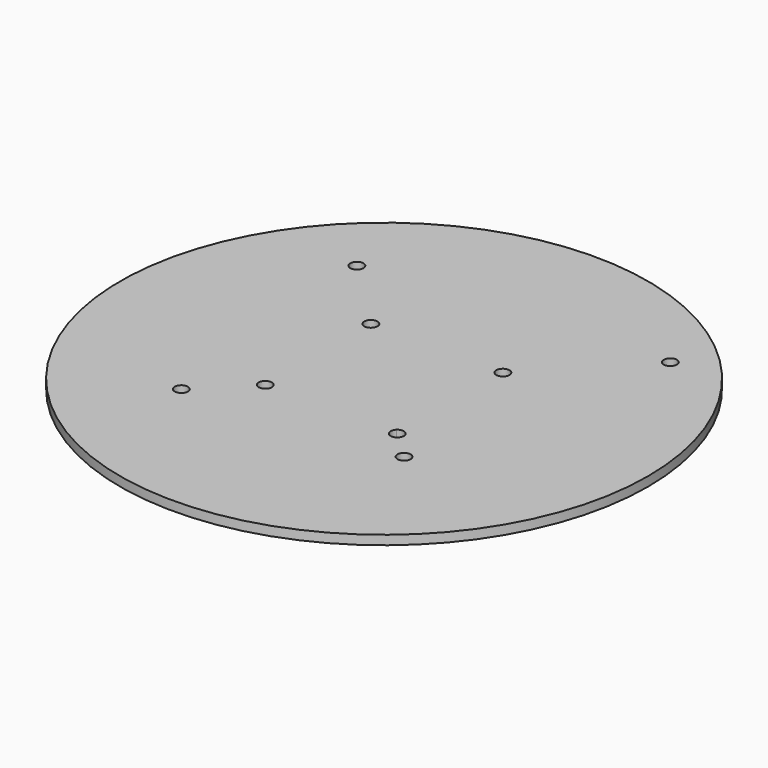
from build123d import *

# Parameters (mm, degrees)
F0_R     = 20
F1_DEPTH = 0.7
F2_R     = 0.5
F3_DEPTH = 0.7


with BuildPart() as f1:
    # F0 (on Top) → F1 (new body)
    with BuildSketch(Plane.XY):
        Circle(F0_R)
    extrude(amount=F1_DEPTH)

    # F2 (on face) → F3 (cut)
    with BuildSketch(Plane.XY.offset(0.7)):
        with BuildLine():
            ThreePointArc((-4.646434, 4.646434), (-4.538048, 4.808646), (-4.499987, 4.999987))
            ThreePointArc((-4.499987, 4.999987), (-5.461927, 5.191329), (-4.646434, 4.646434))
        make_face()
        with BuildLine():
            ThreePointArc((5.499987, -4.999987), (5.191329, -4.538048), (4.646434, -4.646434))
            ThreePointArc((4.646434, -4.646434), (4.808646, -5.461927), (5.499987, -4.999987))
        make_face()
        with Locations((5.000013, 5.000013)):
            Circle(F2_R)
        with Locations((-5.000013, -5.000013)):
            Circle(F2_R)
        with Locations((-10.303288, 10.303288)):
            Circle(F2_R)
        with Locations((-8.535547, -8.535547)):
            Circle(F2_R)
        with Locations((7.170718, -7.070718)):
            Circle(F2_R)
        with Locations((11.902449, 12.235783)):
            Circle(F2_R)
    extrude(amount=-F3_DEPTH, mode=Mode.SUBTRACT)


solid = f1.part
